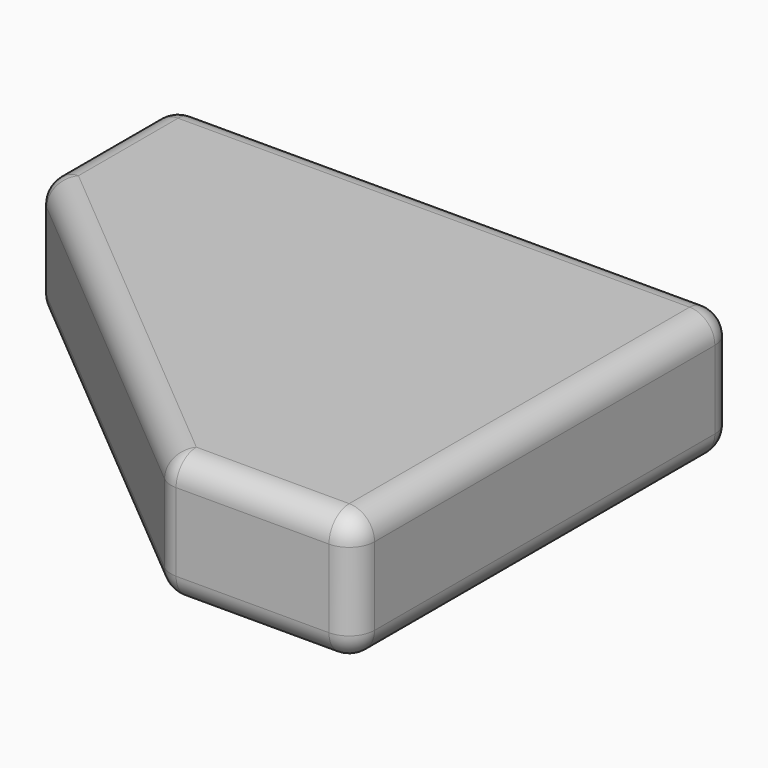
from build123d import *

# Parameters (mm, degrees)
F1_DEPTH = 25.4
F2_R     = 5


with BuildPart() as f1:
    # F0 (on Top) → F1 (new body)
    with BuildSketch(Plane.XY):
        Polygon((55, 50), (-56, 50), (-56, 18.093373), (18, -44), (55, -44), align=None)
    extrude(amount=F1_DEPTH)

    # F2
    f2_edges = [f1.edges().sort_by_distance(p)[0] for p in [
        (-0.5, 50, 0),
        (-56, 34.046686, 0),
        (-19, -12.953314, 0),
        (36.5, -44, 0),
        (55, 3, 0),
        (-0.5, 50, 25.4),
        (-56, 34.046686, 25.4),
        (-19, -12.953314, 25.4),
        (36.5, -44, 25.4),
        (55, 3, 25.4),
        (-56, 50, 12.7),
        (55, 50, 12.7),
        (-56, 18.093373, 12.7),
        (18, -44, 12.7),
        (55, -44, 12.7),
    ]]
    fillet(f2_edges, radius=F2_R)


solid = f1.part
